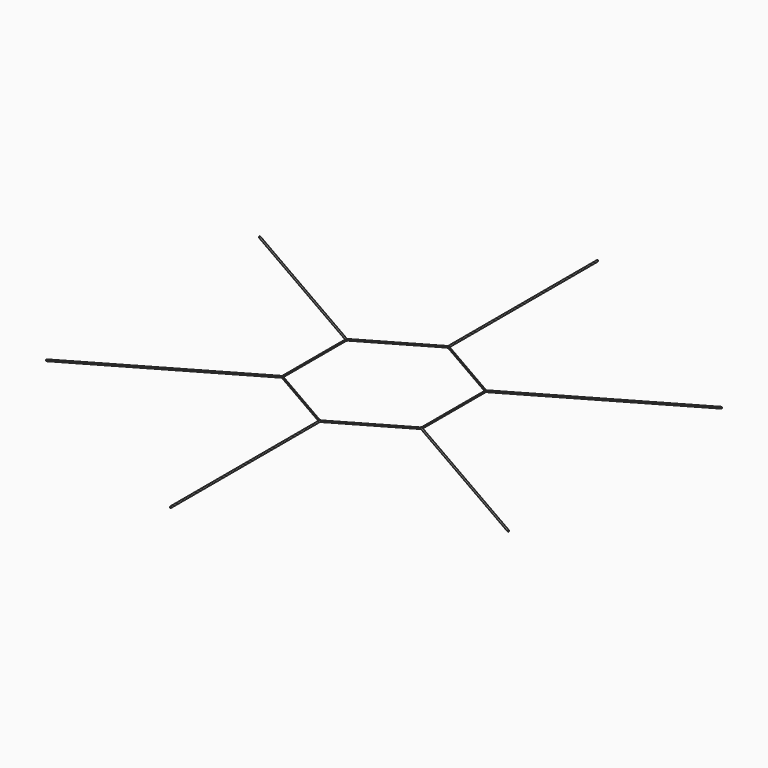
from build123d import *

# Parameters (mm, degrees)
F1_DEPTH      = 6.35
F2_R          = 4.7625
F3_DEPTH      = 1739.9
F5_COUNT      = 6
F7_DEPTH      = 25.4
F7_DEPTH_BACK = 25.4


with BuildPart() as f1:
    # F0 (on Top) → F1 (new body)
    with BuildSketch(Plane.XY):
        Polygon((457.2, 263.9645430735), (0, 527.929086147), (-457.2, 263.9645430735), (-457.2, -263.9645430735), (0, -527.929086147), (457.2, -263.9645430735), align=None)
        Polygon((-450.85, 260.2983688641), (0, 520.5967377283), (450.85, 260.2983688641), (450.85, -260.2983688641), (0, -520.5967377283), (-450.85, -260.2983688641), align=None, mode=Mode.SUBTRACT)
    extrude(amount=F1_DEPTH)

    # F2 (on Front) → F3 (join)
    with BuildSketch(Plane.XZ):
        with Locations((0, 3.175)):
            Circle(F2_R)
    extrude(amount=F3_DEPTH)

    # F5: F1 ×6 about axis
    f5_axis = Axis((0, 0, 11.23058144), (0, 0, 1))


with BuildPart() as f1_1:
    add(f1.part)
    for i in range(1, F5_COUNT):
        add(f1.part.rotate(f5_axis, i * 360 / F5_COUNT))

    # F6 (on Top) → F7 (cut, two sides)
    with BuildSketch(Plane.XY) as f7_sk:
        Polygon((450.85, -260.2983688641), (450.85, 260.2983688641), (0, 520.5967377283), (-450.85, 260.2983688641), (-450.85, -260.2983688641), (0, -520.5967377283), align=None)
    extrude(amount=-F7_DEPTH, mode=Mode.SUBTRACT)
    extrude(f7_sk.sketch, amount=F7_DEPTH_BACK, mode=Mode.SUBTRACT)


solid = f1_1.part
